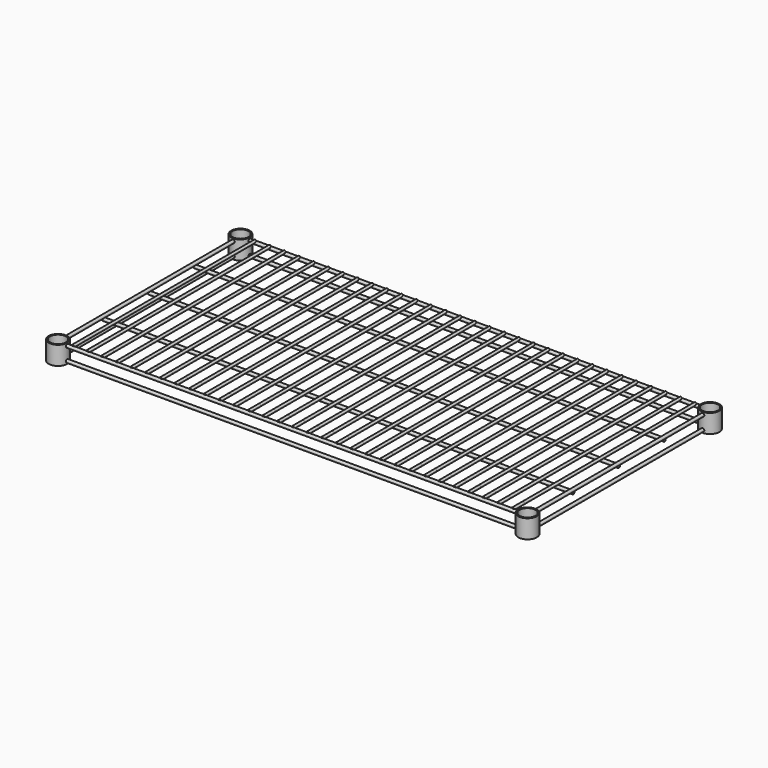
from build123d import *

# Parameters (mm, degrees)
F2_R           = 17.5
F2_R_2         = 15
F3_DEPTH       = 35
F6_R           = 3
F7_DEPTH       = 7.7590604521
F7_DEPTH_BACK  = 387.7590604521
F8_R           = 3
F9_DEPTH       = 842.7590604504
F9_DEPTH_BACK  = 7.7590604504
F13_R          = 3
F14_DEPTH      = 885
F31_R          = 2.5
F32_DEPTH      = 25
F32_DEPTH_BACK = 405


with BuildPart() as f3:
    # F2 (on Top) → F3 (new body)
    with BuildSketch(Plane.XY):
        Circle(F2_R)
        Circle(F2_R_2, mode=Mode.SUBTRACT)
    extrude(amount=F3_DEPTH)



with BuildPart() as f3b:
    # F2 (on Top) → F3, piece 2 (new body)
    with BuildSketch(Plane.XY):
        with Locations((0, 430)):
            Circle(F2_R)
        with Locations((0, 430)):
            Circle(F2_R_2, mode=Mode.SUBTRACT)
    extrude(amount=F3_DEPTH)


with BuildPart() as f3c:
    # F2 (on Top) → F3, piece 3 (new body)
    with BuildSketch(Plane.XY):
        with Locations((885, 0)):
            Circle(F2_R)
        with Locations((885, 0)):
            Circle(F2_R_2, mode=Mode.SUBTRACT)
    extrude(amount=F3_DEPTH)



with BuildPart() as f3d:
    # F2 (on Top) → F3, piece 4 (new body)
    with BuildSketch(Plane.XY):
        with Locations((885, 430)):
            Circle(F2_R)
        with Locations((885, 430)):
            Circle(F2_R_2, mode=Mode.SUBTRACT)
    extrude(amount=F3_DEPTH)


with BuildPart() as f3_1:
    add(f3.part)

    add(f3b.part)  # F7 merges F3b
    # F6 (on offset) → F7 (join, two sides)
    with BuildSketch(Plane.XZ.offset(-25)) as f7_sk:
        with Locations((0, 30)):
            Circle(F6_R)
        with Locations((0, 5)):
            Circle(F6_R)
    extrude(amount=F7_DEPTH)
    extrude(f7_sk.sketch, amount=-F7_DEPTH_BACK)



with BuildPart() as f3c_1:
    add(f3c.part)

    add(f3d.part)  # F7#2 merges F3d
    # F6 (on offset) → F7, piece 2 (join, two sides)
    with BuildSketch(Plane.XZ.offset(-25)) as f7_2_sk:
        with Locations((885, 5)):
            Circle(F6_R)
        with Locations((885, 30)):
            Circle(F6_R)
    extrude(amount=F7_DEPTH)
    extrude(f7_2_sk.sketch, amount=-F7_DEPTH_BACK)


with BuildPart() as f3_2:
    add(f3_1.part)

    add(f3c_1.part)  # F9 merges F3c
    # F8 (on offset) → F9 (join, two sides)
    with BuildSketch(Plane.YZ.offset(25)) as f9_sk:
        with Locations((0, 5)):
            Circle(F8_R)
        with Locations((0, 30)):
            Circle(F8_R)
        with Locations((430, 5)):
            Circle(F8_R)
        with Locations((430, 30)):
            Circle(F8_R)
    extrude(amount=F9_DEPTH)
    extrude(f9_sk.sketch, amount=-F9_DEPTH_BACK)

    # F13 (on Right) → F14 (join, through all)
    with BuildSketch(Plane.YZ):
        with Locations((215, 25)):
            Circle(F13_R)
        with Locations((107.5, 25)):
            Circle(F13_R)
        with Locations((322.5, 25)):
            Circle(F13_R)
    extrude(amount=F14_DEPTH)

    # F31 (on offset) → F32 (join, two sides)
    with BuildSketch(Plane.XZ.offset(-25)) as f32_sk:
        with Locations((27.65625, 32.5)):
            Circle(F31_R)
        with Locations((55.3125, 32.5)):
            Circle(F31_R)
        with Locations((82.96875, 32.5)):
            Circle(F31_R)
        with Locations((110.625, 32.5)):
            Circle(F31_R)
        with Locations((138.28125, 32.5)):
            Circle(F31_R)
        with Locations((165.9375, 32.5)):
            Circle(F31_R)
        with Locations((193.59375, 32.5)):
            Circle(F31_R)
        with Locations((221.25, 32.5)):
            Circle(F31_R)
        with Locations((248.90625, 32.5)):
            Circle(F31_R)
        with Locations((276.5625, 32.5)):
            Circle(F31_R)
        with Locations((304.21875, 32.5)):
            Circle(F31_R)
        with Locations((331.875, 32.5)):
            Circle(F31_R)
        with Locations((359.53125, 32.5)):
            Circle(F31_R)
        with Locations((387.1875, 32.5)):
            Circle(F31_R)
        with Locations((414.84375, 32.5)):
            Circle(F31_R)
        with Locations((442.5, 32.5)):
            Circle(F31_R)
        with Locations((802.03125, 32.5)):
            Circle(F31_R)
        with Locations((774.375, 32.5)):
            Circle(F31_R)
        with Locations((746.71875, 32.5)):
            Circle(F31_R)
        with Locations((719.0625, 32.5)):
            Circle(F31_R)
        with Locations((691.40625, 32.5)):
            Circle(F31_R)
        with Locations((663.75, 32.5)):
            Circle(F31_R)
        with Locations((636.09375, 32.5)):
            Circle(F31_R)
        with Locations((608.4375, 32.5)):
            Circle(F31_R)
        with Locations((580.78125, 32.5)):
            Circle(F31_R)
        with Locations((553.125, 32.5)):
            Circle(F31_R)
        with Locations((525.46875, 32.5)):
            Circle(F31_R)
        with Locations((829.6875, 32.5)):
            Circle(F31_R)
        with Locations((857.34375, 32.5)):
            Circle(F31_R)
        with Locations((470.15625, 32.5)):
            Circle(F31_R)
        with Locations((497.8125, 32.5)):
            Circle(F31_R)
    extrude(amount=F32_DEPTH)
    extrude(f32_sk.sketch, amount=-F32_DEPTH_BACK)


solid = f3_2.part
